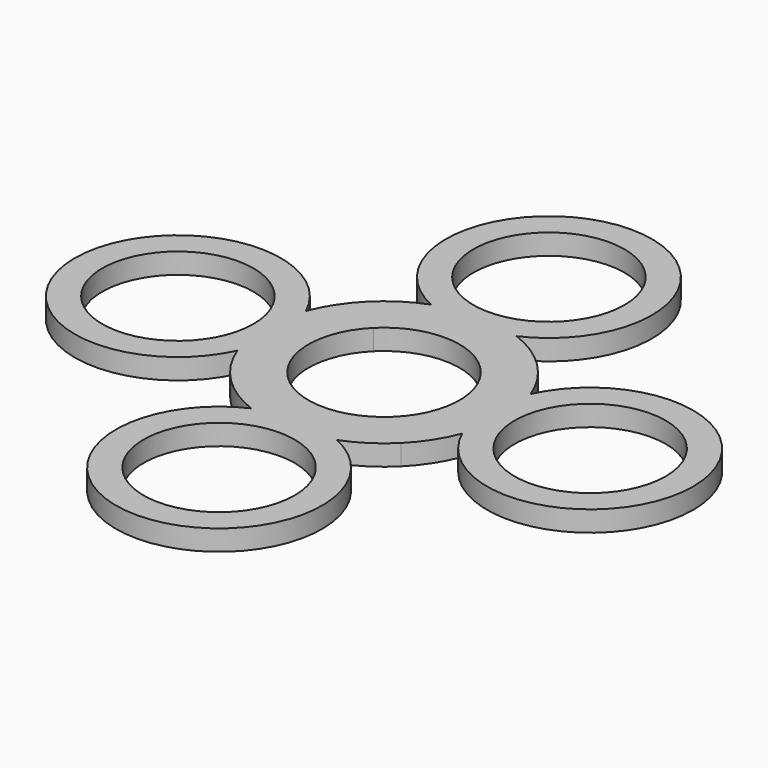
from build123d import *

# Parameters (mm, degrees)
F0_R     = 11
F1_DEPTH = 3


with BuildPart() as f1:
    # F0 (on Top) → F1 (new body)
    with BuildSketch(Plane.XY):
        with BuildLine():
            ThreePointArc((6.228261, 16.354167), (0, 45), (-6.228261, 16.354167))
            ThreePointArc((-6.228261, 16.354167), (-9.51179, 14.689311), (-12.374369, 12.374369))
            ThreePointArc((-12.374369, 12.374369), (-14.689311, 9.51179), (-16.354167, 6.228261))
            ThreePointArc((-16.354167, 6.228261), (-45, 0), (-16.354167, -6.228261))
            ThreePointArc((-16.354167, -6.228261), (-14.689311, -9.51179), (-12.374369, -12.374369))
            ThreePointArc((-12.374369, -12.374369), (-9.51179, -14.689311), (-6.228261, -16.354167))
            ThreePointArc((-6.228261, -16.354167), (0, -45), (6.228261, -16.354167))
            ThreePointArc((6.228261, -16.354167), (9.51179, -14.689311), (12.374369, -12.374369))
            ThreePointArc((12.374369, -12.374369), (14.689311, -9.51179), (16.354167, -6.228261))
            ThreePointArc((16.354167, -6.228261), (45, 0), (16.354167, 6.228261))
            ThreePointArc((16.354167, 6.228261), (14.689311, 9.51179), (12.374369, 12.374369))
            ThreePointArc((12.374369, 12.374369), (9.51179, 14.689311), (6.228261, 16.354167))
        make_face()
        with Locations((0, -30)):
            Circle(F0_R, mode=Mode.SUBTRACT)
        with Locations((-30, 0)):
            Circle(F0_R, mode=Mode.SUBTRACT)
        with BuildLine():
            ThreePointArc((-7.778175, 7.778175), (0, 11), (7.778175, 7.778175))
            ThreePointArc((7.778175, 7.778175), (11, 0), (7.778175, -7.778175))
            ThreePointArc((7.778175, -7.778175), (0, -11), (-7.778175, -7.778175))
            ThreePointArc((-7.778175, -7.778175), (-11, 0), (-7.778175, 7.778175))
        make_face(mode=Mode.SUBTRACT)
        with Locations((30, 0)):
            Circle(F0_R, mode=Mode.SUBTRACT)
        with Locations((0, 30)):
            Circle(F0_R, mode=Mode.SUBTRACT)
    extrude(amount=F1_DEPTH)


solid = f1.part
